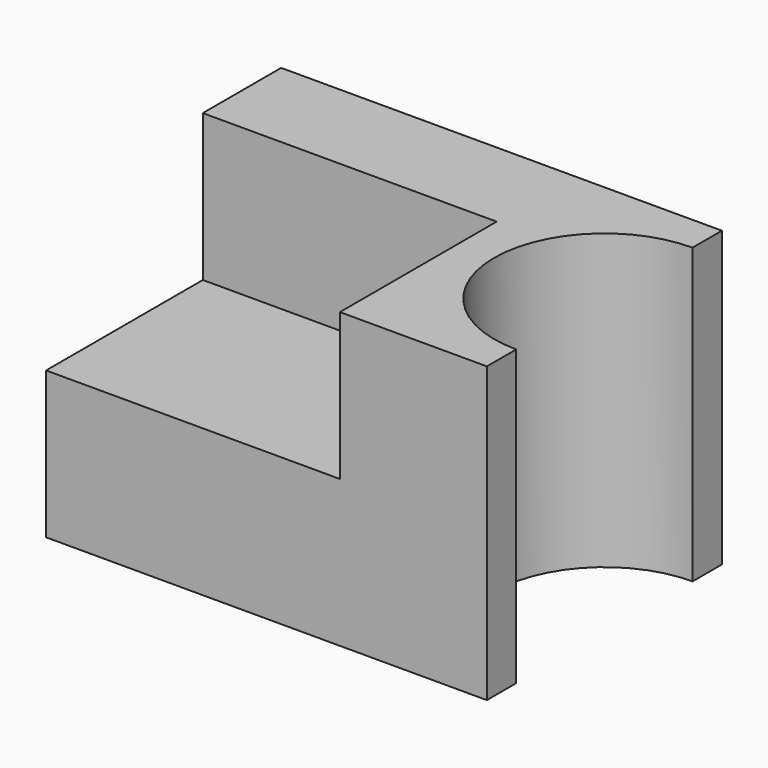
from build123d import *

# Parameters (mm, degrees)
F1_DEPTH = 30
F3_DEPTH = 30


with BuildPart() as f1:
    # F0 (on Top) → F1 (new body)
    with BuildSketch(Plane.XY):
        with BuildLine():
            Line((0, 60), (0, 0))
            Line((0, 0), (90, 0))
            Line((90, 0), (90, 7.5))
            ThreePointArc((90, 7.5), (67.5, 30), (90, 52.5))
            Line((90, 52.5), (90, 60))
            Line((90, 60), (0, 60))
        make_face()
    extrude(amount=F1_DEPTH)

    # F2 (on face) → F3 (join)
    with BuildSketch(Plane.XY.offset(30)):
        with BuildLine():
            Line((60, 0), (90, 0))
            Line((90, 0), (90, 7.5))
            ThreePointArc((90, 7.5), (67.5, 30), (90, 52.5))
            Line((90, 52.5), (90, 60))
            Line((90, 60), (0, 60))
            Line((0, 60), (0, 40))
            Line((0, 40), (60, 40))
            Line((60, 40), (60, 0))
        make_face()
    extrude(amount=F3_DEPTH)


solid = f1.part
